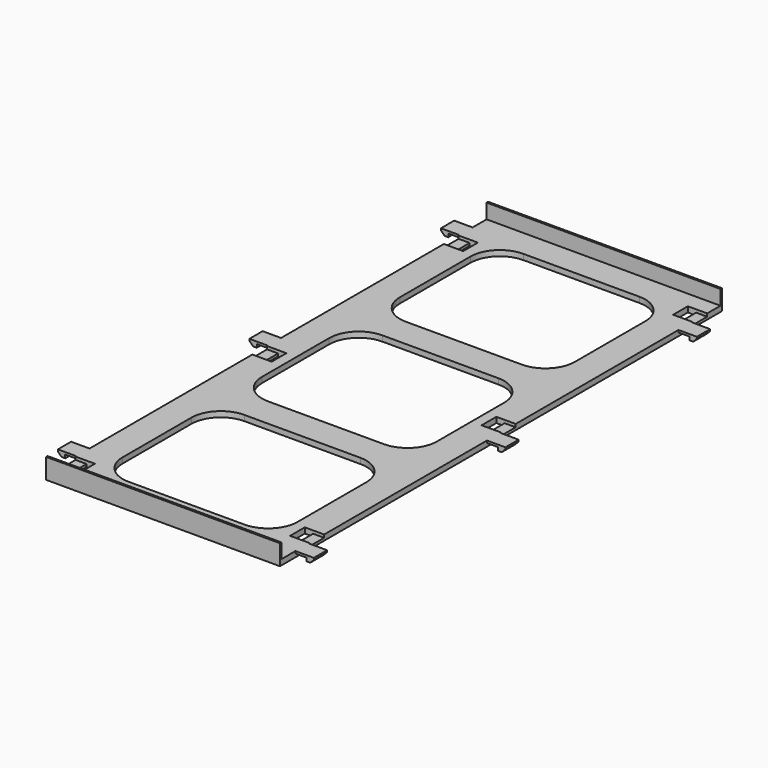
from build123d import *

# Parameters (mm, degrees)
F0_W      = 63.5
F0_H      = 150
F1_DEPTH  = 1.5
F2_W      = 47.5
F2_H      = 39.9
F2_H_2    = 38.8
F2_H_3    = 39.3
F3_DEPTH  = 1.501
F4_R      = 8
F5_W      = 63.5
F5_H      = 0.5
F6_DEPTH  = 4
F7_W      = 5
F7_H      = 0.8
F8_DEPTH  = 5.25
F9_W      = 5
F9_H      = 0.8
F10_DEPTH = 5.25
F11_W     = 4.5
F11_H     = 0.6
F12_DEPTH = 5
F13_W     = 4.5
F13_H     = 0.6
F14_DEPTH = 5
F15_W     = 2.25
F15_H     = 5
F16_DEPTH = 5.501
F17_W     = 2
F17_H     = 4.5
F18_DEPTH = 0.9
F19_W     = 2
F19_H     = 4.5
F20_DEPTH = 0.9
F21_W     = 2
F21_H     = 4.5
F22_DEPTH = 0.9
F23_W     = 2
F23_H     = 4.5
F24_DEPTH = 0.9
F25_W     = 2
F25_H     = 4.5
F26_DEPTH = 0.9
F27_W     = 2
F27_H     = 4.5
F28_DEPTH = 0.9
F29_SIZE  = 1


with BuildPart() as f1:
    # F0 (on Top) → F1 (new body)
    with BuildSketch(Plane.XY):
        with Locations((31.75, 75)):
            Rectangle(F0_W, F0_H)
    extrude(amount=F1_DEPTH)

    # F2 (on face) → F3 (cut, through all)
    with BuildSketch(Plane.XY.offset(1.5)):
        with Locations((31.75, 122.05)):
            Rectangle(F2_W, F2_H)
        with Locations((31.75, 74.7)):
            Rectangle(F2_W, F2_H_2)
        with Locations((31.75, 27.65)):
            Rectangle(F2_W, F2_H_3)
    extrude(amount=-F3_DEPTH, mode=Mode.SUBTRACT)

    # F4
    f4_edges = [f1.edges().sort_by_distance(p)[0] for p in [
        (8, 142, 0.75),
        (8, 94.1, 0.75),
        (8, 47.3, 0.75),
        (8, 102.1, 0.75),
        (8, 55.3, 0.75),
        (8, 8, 0.75),
        (55.5, 102.1, 0.75),
        (55.5, 55.3, 0.75),
        (55.5, 8, 0.75),
        (55.5, 142, 0.75),
        (55.5, 94.1, 0.75),
        (55.5, 47.3, 0.75),
    ]]
    fillet(f4_edges, radius=F4_R)

    # F5 (on face) → F6 (join)
    with BuildSketch(Plane.XY.offset(1.5)):
        with Locations((31.75, 0.25)):
            Rectangle(F5_W, F5_H)
        with Locations((31.75, 149.75)):
            Rectangle(F5_W, F5_H)
    extrude(amount=F6_DEPTH)

    # F7 (on face) → F8 (cut)
    with BuildSketch(Plane.YZ.offset(63.5)):
        with Locations((142.5, 1.1)):
            Rectangle(F7_W, F7_H)
        with Locations((77.5, 1.1)):
            Rectangle(F7_W, F7_H)
        with Locations((12.5, 1.1)):
            Rectangle(F7_W, F7_H)
    extrude(amount=-F8_DEPTH, mode=Mode.SUBTRACT)

    # F9 (on face) → F10 (cut)
    with BuildSketch(Plane(origin=(0, 0, 0), x_dir=(0, -1, 0), z_dir=(-1, 0, 0))):
        with Locations((-7.5, 1.1)):
            Rectangle(F9_W, F9_H)
        with Locations((-72.5, 1.1)):
            Rectangle(F9_W, F9_H)
        with Locations((-137.5, 1.1)):
            Rectangle(F9_W, F9_H)
    extrude(amount=-F10_DEPTH, mode=Mode.SUBTRACT)

    # F11 (on face) → F12 (join)
    with BuildSketch(Plane(origin=(0, 0, 0), x_dir=(0, -1, 0), z_dir=(-1, 0, 0))):
        with Locations((-142.5, 1.2)):
            Rectangle(F11_W, F11_H)
        with Locations((-77.5, 1.2)):
            Rectangle(F11_W, F11_H)
        with Locations((-12.5, 1.2)):
            Rectangle(F11_W, F11_H)
    extrude(amount=F12_DEPTH)

    # F13 (on face) → F14 (join)
    with BuildSketch(Plane.YZ.offset(63.5)):
        with Locations((137.5, 1.2)):
            Rectangle(F13_W, F13_H)
        with Locations((72.5, 1.2)):
            Rectangle(F13_W, F13_H)
        with Locations((7.5, 1.2)):
            Rectangle(F13_W, F13_H)
    extrude(amount=F14_DEPTH)

    # F15 (on face) → F16 (cut, through all)
    with BuildSketch(Plane(origin=(0, 0, 0), x_dir=(1, 0, 0), z_dir=(0, 0, -1))):
        with Locations((59.375, -12.5)):
            Rectangle(F15_W, F15_H)
        with Locations((4.125, -7.5)):
            Rectangle(F15_W, F15_H)
        with Locations((59.375, -77.5)):
            Rectangle(F15_W, F15_H)
        with Locations((4.125, -72.5)):
            Rectangle(F15_W, F15_H)
        with Locations((59.375, -142.5)):
            Rectangle(F15_W, F15_H)
        with Locations((4.125, -137.5)):
            Rectangle(F15_W, F15_H)
    extrude(amount=-F16_DEPTH, mode=Mode.SUBTRACT)

    # F17 (on face) → F18 (join)
    with BuildSketch(Plane(origin=(0, 0, 0.9), x_dir=(1, 0, 0), z_dir=(0, 0, -1))):
        with Locations((-4, -12.5)):
            Rectangle(F17_W, F17_H)
    extrude(amount=F18_DEPTH)

    # F19 (on face) → F20 (join)
    with BuildSketch(Plane(origin=(0, 0, 0.9), x_dir=(1, 0, 0), z_dir=(0, 0, -1))):
        with Locations((-4, -77.5)):
            Rectangle(F19_W, F19_H)
    extrude(amount=F20_DEPTH)

    # F21 (on face) → F22 (join)
    with BuildSketch(Plane(origin=(0, 0, 0.9), x_dir=(1, 0, 0), z_dir=(0, 0, -1))):
        with Locations((-4, -142.5)):
            Rectangle(F21_W, F21_H)
    extrude(amount=F22_DEPTH)

    # F23 (on face) → F24 (join)
    with BuildSketch(Plane(origin=(0, 0, 0.9), x_dir=(1, 0, 0), z_dir=(0, 0, -1))):
        with Locations((67.5, -137.5)):
            Rectangle(F23_W, F23_H)
    extrude(amount=F24_DEPTH)

    # F25 (on face) → F26 (join)
    with BuildSketch(Plane(origin=(0, 0, 0.9), x_dir=(1, 0, 0), z_dir=(0, 0, -1))):
        with Locations((67.5, -72.5)):
            Rectangle(F25_W, F25_H)
    extrude(amount=F26_DEPTH)

    # F27 (on face) → F28 (join)
    with BuildSketch(Plane(origin=(0, 0, 0.9), x_dir=(1, 0, 0), z_dir=(0, 0, -1))):
        with Locations((67.5, -7.5)):
            Rectangle(F27_W, F27_H)
    extrude(amount=F28_DEPTH)

    # F29
    f29_edges = [f1.edges().sort_by_distance(p)[0] for p in [
        (-5, 142.5, 0),
        (-5, 77.5, 0),
        (-5, 12.5, 0),
        (68.5, 72.5, 0),
        (68.5, 137.5, 0),
        (68.5, 7.5, 0),
    ]]
    chamfer(f29_edges, length=F29_SIZE)


solid = f1.part
